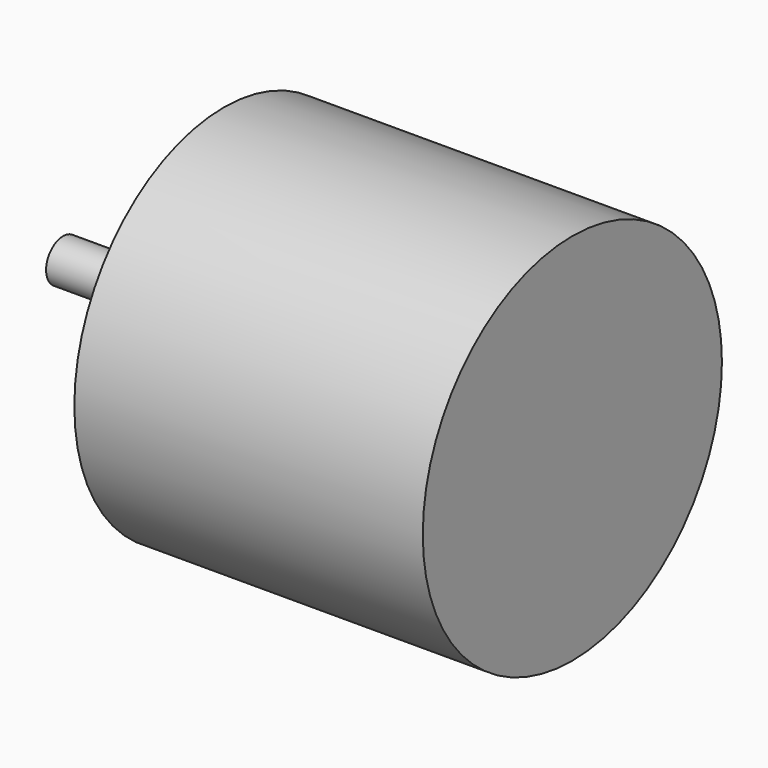
from build123d import *

# Parameters (mm, degrees)
F0_R     = 13.95
F1_DEPTH = 26
F2_R     = 1.585
F3_DEPTH = 12


with BuildPart() as f1:
    # F0 (on Right) → F1 (new body)
    with BuildSketch(Plane.YZ):
        Circle(F0_R)
    extrude(amount=F1_DEPTH)

    # F2 (on face) → F3 (join)
    with BuildSketch(Plane(origin=(0, 0, 0), x_dir=(0, -1, 0), z_dir=(-1, 0, 0))):
        Circle(F2_R)
    extrude(amount=F3_DEPTH)


solid = f1.part
